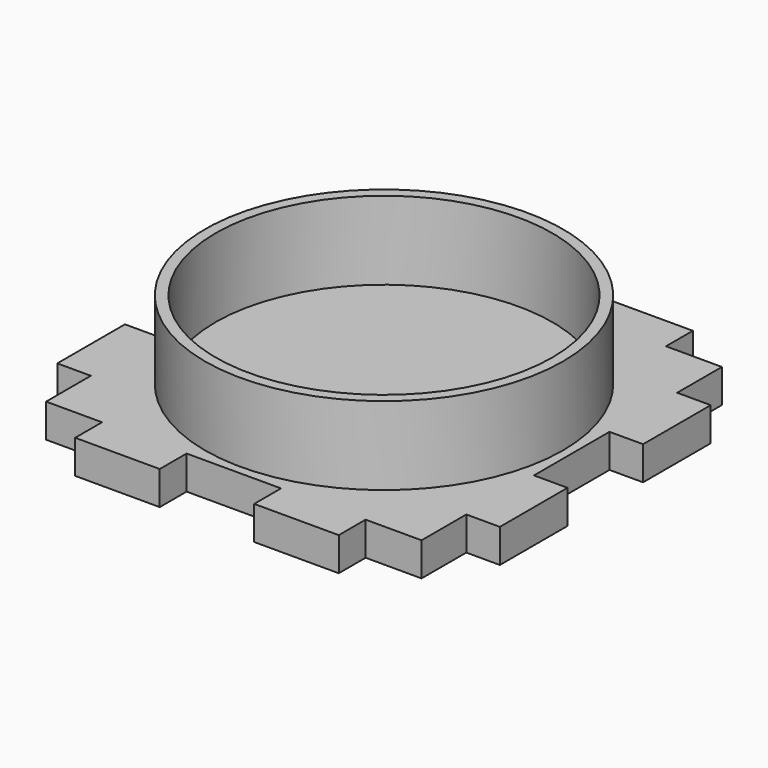
from build123d import *

# Parameters (mm, degrees)
F0_W     = 34
F0_H     = 34
F1_DEPTH = 3
F2_W     = 3
F2_H     = 8
F2_W_2   = 8
F2_H_2   = 3
F3_DEPTH = 3
F4_W     = 51.87688
F4_H     = 52.158144
F5_DEPTH = 3.001
F6_R     = 16
F6_R_2   = 15.05
F7_DEPTH = 7


with BuildPart() as f1:
    # F0 (on Top) → F1 (new body)
    with BuildSketch(Plane.XY):
        Rectangle(F0_W, F0_H)
    extrude(amount=F1_DEPTH)

    # F2 (on face) → F3 (join)
    with BuildSketch(Plane.XY.offset(3)):
        with Locations((-18.5, 8)):
            Rectangle(F2_W, F2_H)
        with Locations((-18.5, -8)):
            Rectangle(F2_W, F2_H)
        with Locations((-8, -18.5)):
            Rectangle(F2_W_2, F2_H_2)
        with Locations((8, -18.5)):
            Rectangle(F2_W_2, F2_H_2)
        with Locations((18.5, -8)):
            Rectangle(F2_W, F2_H)
        with Locations((18.5, 8)):
            Rectangle(F2_W, F2_H)
        with Locations((8, 18.5)):
            Rectangle(F2_W_2, F2_H_2)
        with Locations((-8, 18.5)):
            Rectangle(F2_W_2, F2_H_2)
    extrude(amount=-F3_DEPTH)

    # F4 (on face) → F5 (cut, through all)
    with BuildSketch(Plane.XY.offset(3)):
        Rectangle(F4_W, F4_H)
        Polygon((16.78, -16.78), (11.78, -16.78), (11.78, -19.78), (4.22, -19.78), (4.22, -16.78), (-4.22, -16.78), (-4.22, -19.78), (-11.78, -19.78), (-11.78, -16.78), (-16.78, -16.78), (-16.78, -11.78), (-19.78, -11.78), (-19.78, -4.22), (-16.78, -4.22), (-16.78, 4.22), (-19.78, 4.22), (-19.78, 11.78), (-16.78, 11.78), (-16.78, 16.78), (-11.78, 16.78), (-11.78, 19.78), (-4.22, 19.78), (-4.22, 16.78), (4.22, 16.78), (4.22, 19.78), (11.78, 19.78), (11.78, 16.78), (16.78, 16.78), (16.78, 11.78), (19.78, 11.78), (19.78, 4.22), (16.78, 4.22), (16.78, -4.22), (19.78, -4.22), (19.78, -11.78), (16.78, -11.78), align=None, mode=Mode.SUBTRACT)
    extrude(amount=-F5_DEPTH, mode=Mode.SUBTRACT)

    # F6 (on face) → F7 (join)
    with BuildSketch(Plane.XY.offset(3)):
        Circle(F6_R)
        Circle(F6_R_2, mode=Mode.SUBTRACT)
    extrude(amount=F7_DEPTH)


solid = f1.part
